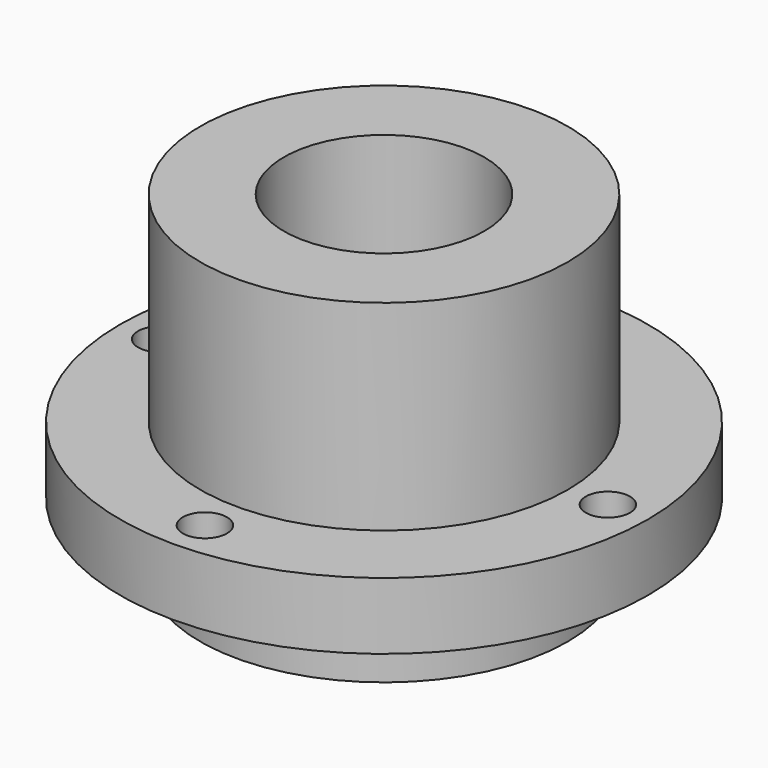
from build123d import *

# Parameters (mm, degrees)
F0_R     = 27.5
F1_DEPTH = 10
F2_R     = 39.5
F3_DEPTH = 10
F4_R     = 27.5
F5_DEPTH = 30
F6_R     = 15
F7_DEPTH = 50.001
F9_D     = 6.6


with BuildPart() as f1:
    # F0 (on Top) → F1 (new body)
    with BuildSketch(Plane.XY):
        Circle(F0_R)
    extrude(amount=-F1_DEPTH)

    # F2 (on Top) → F3 (join)
    with BuildSketch(Plane.XY):
        Circle(F2_R)
    extrude(amount=F3_DEPTH)

    # F4 (on face) → F5 (join)
    with BuildSketch(Plane.XY.offset(10)):
        Circle(F4_R)
    extrude(amount=F5_DEPTH)

    # F6 (on face) → F7 (cut, through all)
    with BuildSketch(Plane.XY.offset(40)):
        Circle(F6_R)
    extrude(amount=-F7_DEPTH, mode=Mode.SUBTRACT)

    # F9 (through all)
    with Locations(Plane.XY.offset(10)):
        with Locations((0, 33.5), (33.5, 0), (0, -33.5), (-33.5, 0)):
            Hole(F9_D / 2)


solid = f1.part
